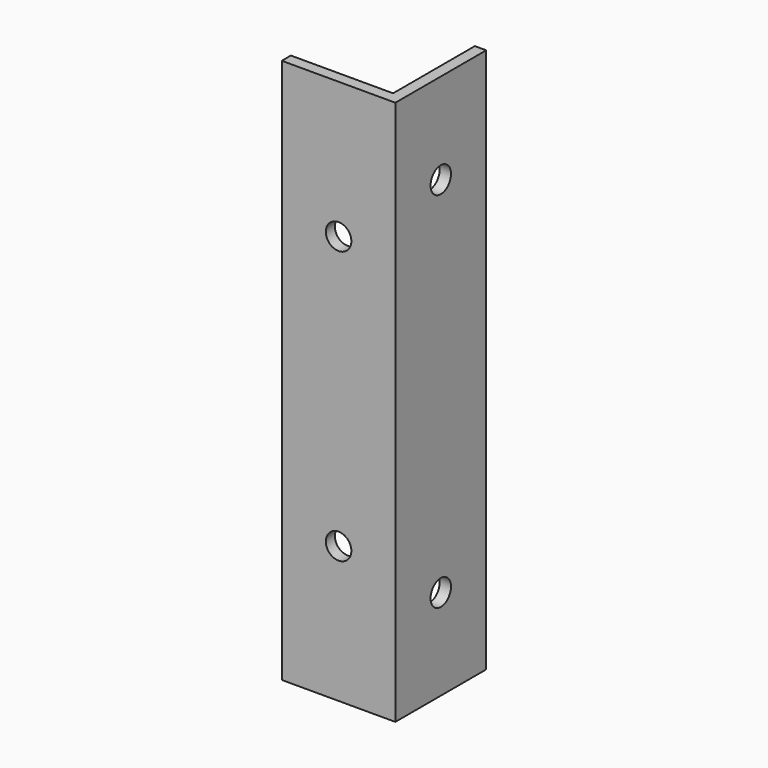
from build123d import *

# Parameters (mm, degrees)
F1_DEPTH = 38.1
F2_R     = 1.7859375
F3_DEPTH = 1.5875
F4_R     = 1.7859375
F5_DEPTH = 1.5875


with BuildPart() as f1:
    # F0 (on Top) → F1 (new body, symmetric)
    with BuildSketch(Plane.XY):
        Polygon((-7.9375, -7.9375), (7.9375, -7.9375), (7.9375, 7.9375), (6.35, 7.9375), (6.35, -6.35), (-7.9375, -6.35), align=None)
    extrude(amount=F1_DEPTH, both=True)

    # F2 (on face) → F3 (cut, through all)
    with BuildSketch(Plane(origin=(6.35, 0, 0), x_dir=(0, -1, 0), z_dir=(-1, 0, 0))):
        with Locations((0, -25.4)):
            Circle(F2_R)
        with Locations((0, 25.4)):
            Circle(F2_R)
    extrude(amount=-F3_DEPTH, mode=Mode.SUBTRACT)

    # F4 (on face) → F5 (cut, through all)
    with BuildSketch(Plane.XZ.offset(7.9375)):
        with Locations((0, 19.05)):
            Circle(F4_R)
        with Locations((0, -19.05)):
            Circle(F4_R)
    extrude(amount=-F5_DEPTH, mode=Mode.SUBTRACT)


solid = f1.part
